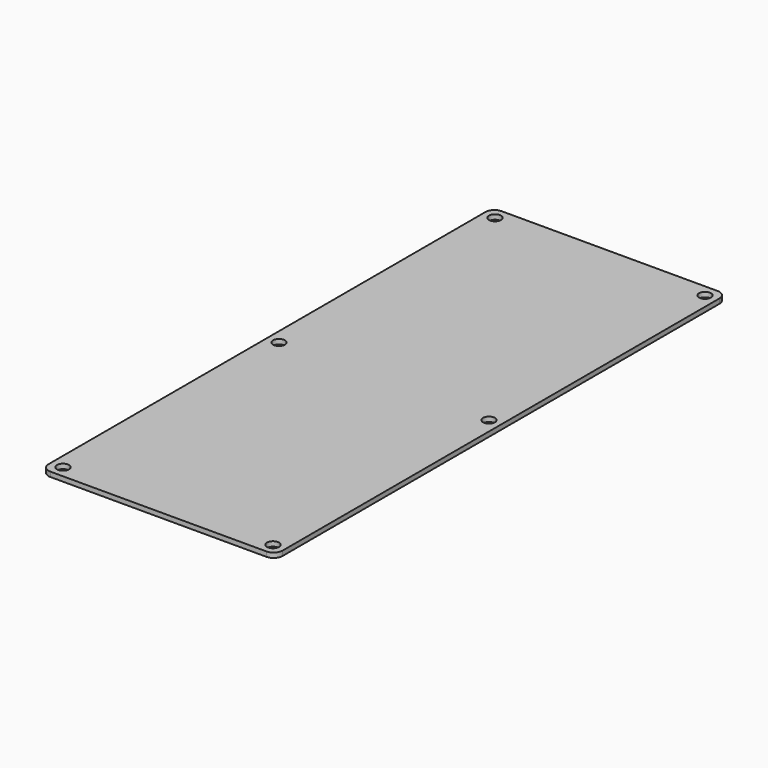
from build123d import *

# Parameters (mm, degrees)
SKETCH_W     = 78
SKETCH_H     = 188
SKETCH_R     = 2
PAD_DEPTH    = 1.59
FILLET_R     = 3
SKETCH001_R  = 0.01
POCKET_DEPTH = 0.1


with BuildPart() as part:
    # Sketch → Pad (new body)
    with BuildSketch(Plane.XY):
        with Locations((35, 90)):
            Rectangle(SKETCH_W, SKETCH_H)
        with Locations((0, 180)):
            Circle(SKETCH_R, mode=Mode.SUBTRACT)
        with Locations((70, 180)):
            Circle(SKETCH_R, mode=Mode.SUBTRACT)
        with Locations((70, 90)):
            Circle(SKETCH_R, mode=Mode.SUBTRACT)
        with Locations((0, 90)):
            Circle(SKETCH_R, mode=Mode.SUBTRACT)
        Circle(SKETCH_R, mode=Mode.SUBTRACT)
        with Locations((70, 0)):
            Circle(SKETCH_R, mode=Mode.SUBTRACT)
    extrude(amount=PAD_DEPTH)

    # Fillet
    fillet_edges = [part.edges().sort_by_distance(p)[0] for p in [
        (-4, -4, 0.795),
        (74, -4, 0.795),
        (74, 184, 0.795),
        (-4, 184, 0.795),
    ]]
    fillet(fillet_edges, radius=FILLET_R)

    # Sketch001 (on Face5 of Fillet) → Pocket (cut)
    with BuildSketch(Plane.XY.offset(1.59)):
        with Locations((6, 153)):
            Circle(SKETCH001_R)
        with Locations((6, 107.5)):
            Circle(SKETCH001_R)
        with Locations((6, 78.5)):
            Circle(SKETCH001_R)
        with Locations((6, 59)):
            Circle(SKETCH001_R)
        with Locations((6, 33)):
            Circle(SKETCH001_R)
        with Locations((6, 21)):
            Circle(SKETCH001_R)
        with Locations((6, 9)):
            Circle(SKETCH001_R)
    extrude(amount=-POCKET_DEPTH, mode=Mode.SUBTRACT)


solid = part.part
